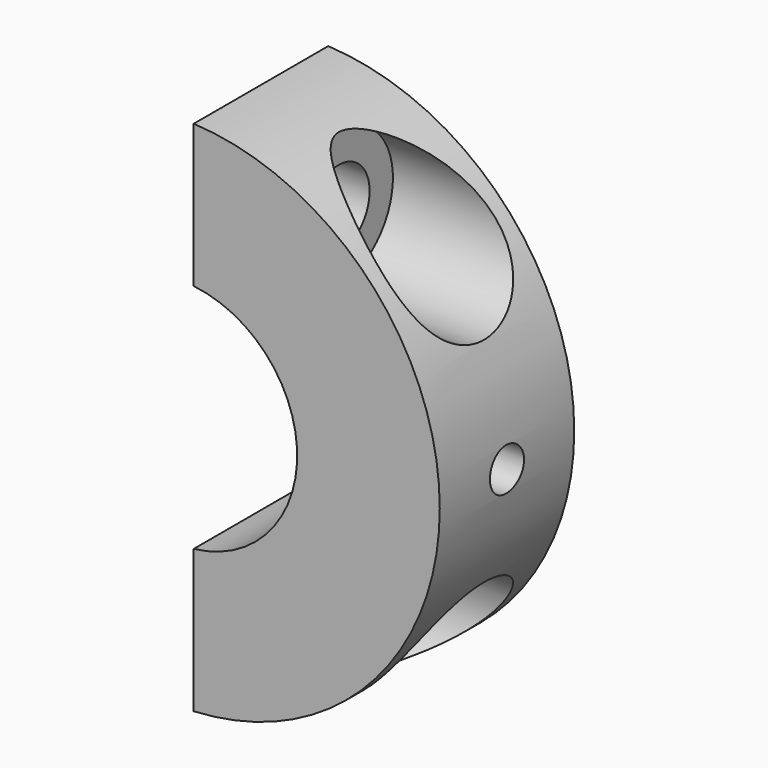
from build123d import *

# Parameters (mm, degrees)
F1_DEPTH = 13
F2_R     = 3
F3_DEPTH = 19.0259843945
F5_R     = 5.25
F6_DEPTH = 19
F9_D     = 3.3
F9_DEPTH = 8.1
F9_START = 1.0431091
F9_TIP   = 0.9914200214


with BuildPart() as f1:
    # F0 (on Front) → F1 (new body)
    with BuildSketch(Plane.XZ):
        with BuildLine():
            ThreePointArc((1, 8.94427191), (9, 0), (1, -8.94427191))
            Line((1, -8.94427191), (1, -20))
            ThreePointArc((1, -20), (20.0249843945, 0), (1, 20))
            Line((1, 20), (1, 8.94427191))
        make_face()
    extrude(amount=F1_DEPTH)

    # F2 (on face) → F3 (cut, through all)
    with BuildSketch(Plane(origin=(1, 0, 0), x_dir=(0, -1, 0), z_dir=(-1, 0, 0))):
        with Locations((6.5, 13.5)):
            Circle(F2_R)
        with Locations((6.5, -13.5)):
            Circle(F2_R)
    extrude(amount=-F3_DEPTH, mode=Mode.SUBTRACT)

    # F5 (on offset) → F6 (cut)
    with BuildSketch(Plane(origin=(26, 0, 0), x_dir=(0, -1, 0), z_dir=(-1, 0, 0))):
        with Locations((6.5, -13.5)):
            Circle(F5_R)
        with Locations((6.5, 13.5)):
            Circle(F5_R)
    extrude(amount=F6_DEPTH, mode=Mode.SUBTRACT)

    # F9
    # its depths count from where the whole tool has entered the part; down to there all is cleared
    with Locations(Plane(origin=(21, 0, 0), x_dir=(0, -1, 0), z_dir=(1, 0, 0)).offset(-F9_START)):
        with Locations((6.5, 0)):
            Hole(F9_D / 2, depth=F9_DEPTH)
            with Locations((0, 0, -(F9_DEPTH + F9_TIP / 2))):  # 118° drill point
                Cone(0, F9_D / 2, F9_TIP, mode=Mode.SUBTRACT)


solid = f1.part
